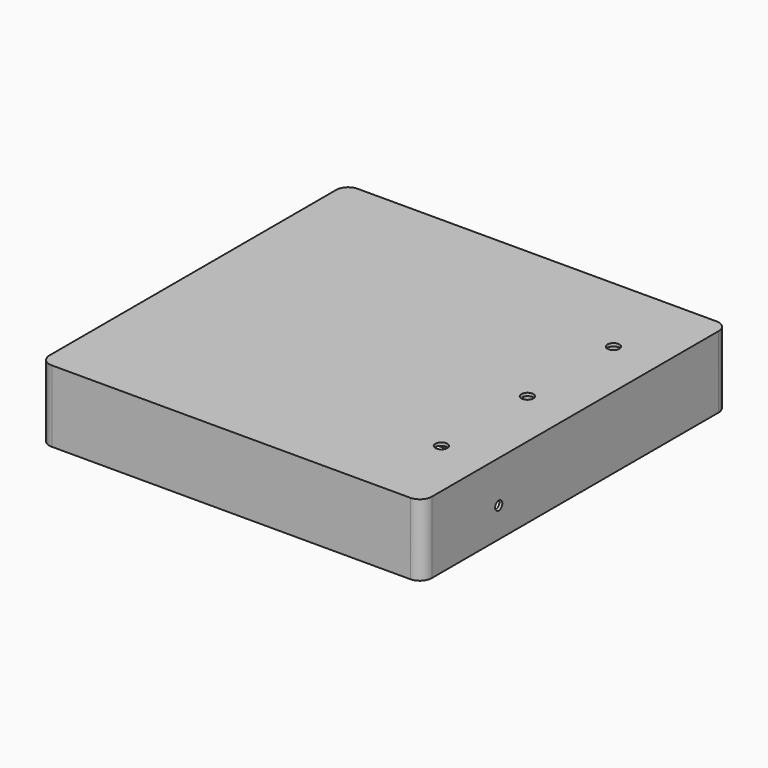
from build123d import *

# Parameters (mm, degrees)
F0_W     = 406.4
F0_H     = 406.4
F1_DEPTH = 76.2
F2_R     = 12.7
F3_R     = 4.7625
F4_DEPTH = 25.4
F5_R     = 6.35
F6_DEPTH = 25.4
F8_DEPTH = 73.025


with BuildPart() as f1:
    # F0 (on Top) → F1 (new body)
    with BuildSketch(Plane.XY):
        Rectangle(F0_W, F0_H)
    extrude(amount=F1_DEPTH)

    # F2
    f2_edges = [f1.edges().sort_by_distance(p)[0] for p in [
        (203.2, -203.2, 38.1),
        (-203.2, -203.2, 38.1),
        (203.2, 203.2, 38.1),
        (-203.2, 203.2, 38.1),
    ]]
    fillet(f2_edges, radius=F2_R)

    # F3 (on face) → F4 (cut)
    with BuildSketch(Plane.YZ.offset(203.2)):
        with Locations((-101.6, 31.75)):
            Circle(F3_R)
    extrude(amount=-F4_DEPTH, mode=Mode.SUBTRACT)

    # F5 (on face) → F6 (cut)
    with BuildSketch(Plane.XY.offset(76.2)):
        with Locations((152.4, -114.3)):
            Circle(F5_R)
        with Locations((152.4, 0)):
            Circle(F5_R)
        with Locations((152.4, 114.3)):
            Circle(F5_R)
    extrude(amount=-F6_DEPTH, mode=Mode.SUBTRACT)

    # F7 (on face) → F8 (cut)
    with BuildSketch(Plane(origin=(0, 0, 0), x_dir=(1, 0, 0), z_dir=(0, 0, -1))):
        Polygon((200.025, 1.5875), (200.025, 149.225), (151.4700640303, 149.225), (3.8325640303, 1.5875), align=None)
        Polygon((1.5875, 3.8325640303), (149.225, 151.4700640303), (149.225, 200.025), (1.5875, 200.025), align=None)
        Polygon((-1.5875, 200.025), (-149.225, 200.025), (-149.225, 151.4700640303), (-1.5875, 3.8325640303), align=None)
        Polygon((-3.8325640303, 1.5875), (-151.4700640303, 149.225), (-200.025, 149.225), (-200.025, 1.5875), align=None)
        Polygon((-200.025, -1.5875), (-200.025, -149.225), (-151.4700640303, -149.225), (-3.8325640303, -1.5875), align=None)
        Polygon((-1.5875, -3.8325640303), (-149.225, -151.4700640303), (-149.225, -200.025), (-1.5875, -200.025), align=None)
        Polygon((1.5875, -200.025), (149.225, -200.025), (149.225, -151.4700640303), (1.5875, -3.8325640303), align=None)
        Polygon((3.8325640303, -1.5875), (151.4700640303, -149.225), (200.025, -149.225), (200.025, -1.5875), align=None)
    extrude(amount=-F8_DEPTH, mode=Mode.SUBTRACT)


solid = f1.part
